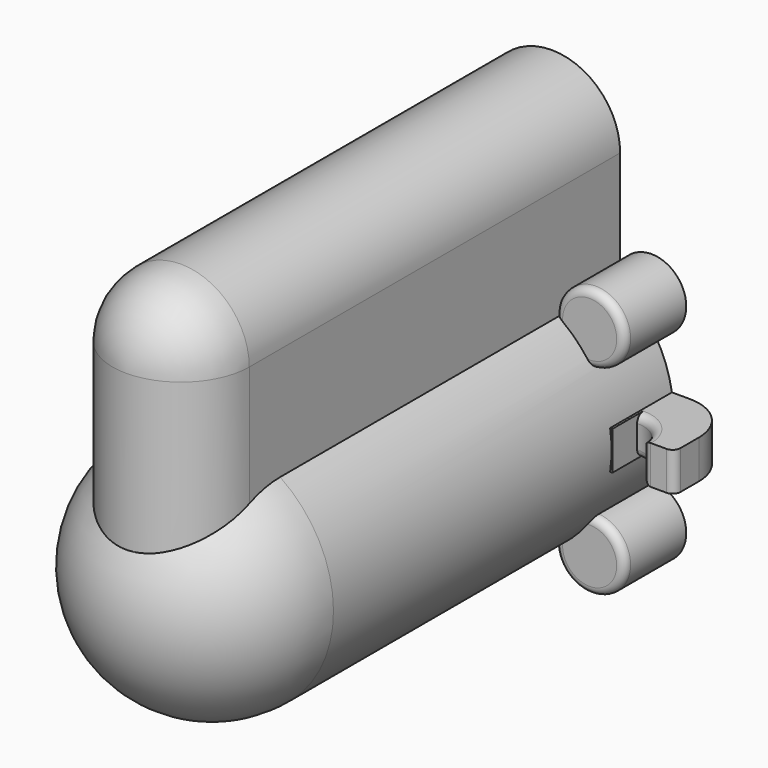
from build123d import *

# Parameters (mm, degrees)
CYLINDER001_R         = 8.85
CYLINDER001_DEPTH     = 60
BOX_W                 = 17.7
BOX_H                 = 27.6
BOX_DEPTH             = 60
SPHERE_ANGLE          = 180
CYLINDER_W            = 8.85
CYLINDER_H            = 27.6
CYLINDER_ANGLE        = 180
CYLINDER002_R         = 15.75
CYLINDER002_DEPTH     = 55
CYLINDER003_R         = 13.75
CYLINDER003_DEPTH     = 55
CYLINDER004_W         = 6.85
CYLINDER004_H         = 27.6
CYLINDER004_ANGLE     = 180
SPHERE003_ANGLE       = 180
CYLINDER005_R         = 6.85
CYLINDER005_DEPTH     = 60
CYLINDER006_R         = 4.5
CYLINDER006_DEPTH     = 10
POLARPATTERN_COUNT    = 4
CYLINDER007_R         = 2.5
CYLINDER007_DEPTH     = 8
POLARPATTERN001_COUNT = 4
BOX018_W              = 10
BOX018_H              = 5
BOX018_DEPTH          = 10
CYLINDER022_W         = 4
CYLINDER022_H         = 5
CYLINDER022_ANGLE     = 90
FILLET017_R           = 1
FILLET018_R           = 6
FILLET019_R           = 1


with BuildPart() as part:
    # Cylinder001 → Cylinder001 (join)
    with BuildSketch(Plane(origin=(0, 0, 27.6), x_dir=(1, 0, 0), z_dir=(0, -1, 0))):
        Circle(CYLINDER001_R)
    extrude(amount=CYLINDER001_DEPTH)

    # Box → Box (join)
    with BuildSketch(Plane(origin=(-8.85, -60, 27.6), x_dir=(1, 0, 0), z_dir=(0, 1, 0))):
        with Locations((8.85, 13.8)):
            Rectangle(BOX_W, BOX_H)
    extrude(amount=BOX_DEPTH)

    # Sphere → Sphere (revolve)
    with BuildSketch(Plane(origin=(0, -55, 0), x_dir=(1, 0, 0), z_dir=(0, 1, 0))):
        with BuildLine():
            ThreePointArc((0, -15.75), (15.75, 0), (0, 15.75))
            Line((0, 15.75), (0, -15.75))
        make_face()
    revolve(axis=Axis((0, -55, 0), (0, 0, -1)), revolution_arc=SPHERE_ANGLE)

    # Sphere002 → Sphere002 (revolve)
    with BuildSketch(Plane(origin=(0, -60, 27.6), x_dir=(0, 0, 1), z_dir=(1, 0, 0))):
        with BuildLine():
            ThreePointArc((0, -8.85), (8.85, 0), (0, 8.85))
            Line((0, 8.85), (0, -8.85))
        make_face()
    revolve(axis=Axis((0, -60, 27.6), (0, -1, 0)))

    # Cylinder → Cylinder (revolve)
    with BuildSketch(Plane(origin=(0, -60, 27.6), x_dir=(1, 0, 0), z_dir=(0, 1, 0))):
        with Locations((4.425, 13.8)):
            Rectangle(CYLINDER_W, CYLINDER_H)
    revolve(axis=Axis((0, -60, 27.6), (0, 0, -1)), revolution_arc=CYLINDER_ANGLE)

    # Cylinder002 → Cylinder002 (join)
    with BuildSketch(Plane.XZ):
        Circle(CYLINDER002_R)
    extrude(amount=CYLINDER002_DEPTH)

    # Cylinder003 → Cylinder003 (cut)
    with BuildSketch(Plane.XZ):
        Circle(CYLINDER003_R)
    extrude(amount=CYLINDER003_DEPTH, mode=Mode.SUBTRACT)

    # Cylinder004 → Cylinder004 (revolve, cut)
    with BuildSketch(Plane(origin=(0, -60, 27.6), x_dir=(1, 0, 0), z_dir=(0, 1, 0))):
        with Locations((3.425, 13.8)):
            Rectangle(CYLINDER004_W, CYLINDER004_H)
    revolve(axis=Axis((0, -60, 27.6), (0, 0, -1)), revolution_arc=CYLINDER004_ANGLE, mode=Mode.SUBTRACT)

    # Sphere003 → Sphere003 (revolve, cut)
    with BuildSketch(Plane(origin=(0, -55, 0), x_dir=(1, 0, 0), z_dir=(0, 1, 0))):
        with BuildLine():
            ThreePointArc((0, -13.75), (13.75, 0), (0, 13.75))
            Line((0, 13.75), (0, -13.75))
        make_face()
    revolve(axis=Axis((0, -55, 0), (0, 0, -1)), revolution_arc=SPHERE003_ANGLE, mode=Mode.SUBTRACT)

    # Cylinder005 → Cylinder005 (cut)
    with BuildSketch(Plane(origin=(0, -60, 27.6), x_dir=(1, 0, 0), z_dir=(0, 1, 0))):
        Circle(CYLINDER005_R)
    extrude(amount=CYLINDER005_DEPTH, mode=Mode.SUBTRACT)

    # Sphere004 → Sphere004 (revolve, cut)
    with BuildSketch(Plane(origin=(0, -60, 27.6), x_dir=(0, 0, 1), z_dir=(1, 0, 0))):
        with BuildLine():
            ThreePointArc((0, -6.85), (6.85, 0), (0, 6.85))
            Line((0, 6.85), (0, -6.85))
        make_face()
    revolve(axis=Axis((0, -60, 27.6), (0, -1, 0)), mode=Mode.SUBTRACT)

    # Cylinder006 → Cylinder006 (join)
    with BuildSketch(Plane(origin=(-12.904699, 0, 12.904699), x_dir=(0, 0, 1), z_dir=(0, -1, 0))):
        Circle(CYLINDER006_R)
    cylinder006 = extrude(amount=CYLINDER006_DEPTH)

    # PolarPattern: Cylinder006 ×4 about axis
    polarpattern_axis = Axis((0, 0, 0), (0, 1, 0))
    for i in range(1, POLARPATTERN_COUNT):
        add(cylinder006.rotate(polarpattern_axis, i * 360 / POLARPATTERN_COUNT))

    # Cylinder007 → Cylinder007 (cut)
    with BuildSketch(Plane(origin=(-12.904699, 0, 12.904699), x_dir=(0, 0, 1), z_dir=(0, -1, 0))):
        Circle(CYLINDER007_R)
    cylinder007 = extrude(amount=CYLINDER007_DEPTH, mode=Mode.SUBTRACT)

    # PolarPattern001: Cylinder007 ×4 about axis
    polarpattern001_axis = Axis((0, 0, 0), (0, 1, 0))
    for i in range(1, POLARPATTERN001_COUNT):
        add(cylinder007.rotate(polarpattern001_axis, i * 360 / POLARPATTERN001_COUNT), mode=Mode.SUBTRACT)

    # Box018 → Box018 (join)
    with BuildSketch(Plane(origin=(13.85, 0, -2.5), x_dir=(1, 0, 0), z_dir=(0, -1, 0))):
        with Locations((5, 2.5)):
            Rectangle(BOX018_W, BOX018_H)
    box018 = extrude(amount=BOX018_DEPTH)

    # Mirrored008: Box018 across YZ
    add(box018.mirror(Plane.YZ))

    # Cylinder022 → Cylinder022 (revolve, cut)
    with BuildSketch(Plane(origin=(15.85, -10, -2.5), x_dir=(1, 0, 0), z_dir=(0, -1, 0))):
        with Locations((2, 2.5)):
            Rectangle(CYLINDER022_W, CYLINDER022_H)
    cylinder022 = revolve(axis=Axis((15.85, -10, -2.5), (0, 0, 1)), revolution_arc=CYLINDER022_ANGLE, mode=Mode.SUBTRACT)

    # Mirrored009: Cylinder022 across YZ
    add(cylinder022.mirror(Plane.YZ), mode=Mode.SUBTRACT)

    # Fillet017
    fillet017_edges = [part.edges().sort_by_distance(p)[0] for p in [
        (23.85, -10, 0),
        (18.678427, -7.171573, 2.5),
        (18.678427, -7.171573, -2.5),
        (19.85, -10, 0),
        (-21.85, -10, 2.5),
        (-18.678427, -7.171573, 2.5),
        (-21.85, -10, -2.5),
        (-18.678427, -7.171573, -2.5),
        (-23.85, -10, 0),
    ]]
    fillet(fillet017_edges, radius=FILLET017_R)

    # Fillet018
    fillet018_edges = [part.edges().sort_by_distance(p)[0] for p in [
        (-23.85, 0, 0),
        (23.85, 0, 0),
    ]]
    fillet(fillet018_edges, radius=FILLET018_R)

    # Fillet019
    fillet019_edges = [part.edges().sort_by_distance(p)[0] for p in [
        (-17.400156, -10, 13.106837),
        (-13.106837, -10, -17.400156),
        (17.400156, -10, -13.106837),
        (16.226401, -10, 9.868863),
    ]]
    fillet(fillet019_edges, radius=FILLET019_R)


solid = part.part
